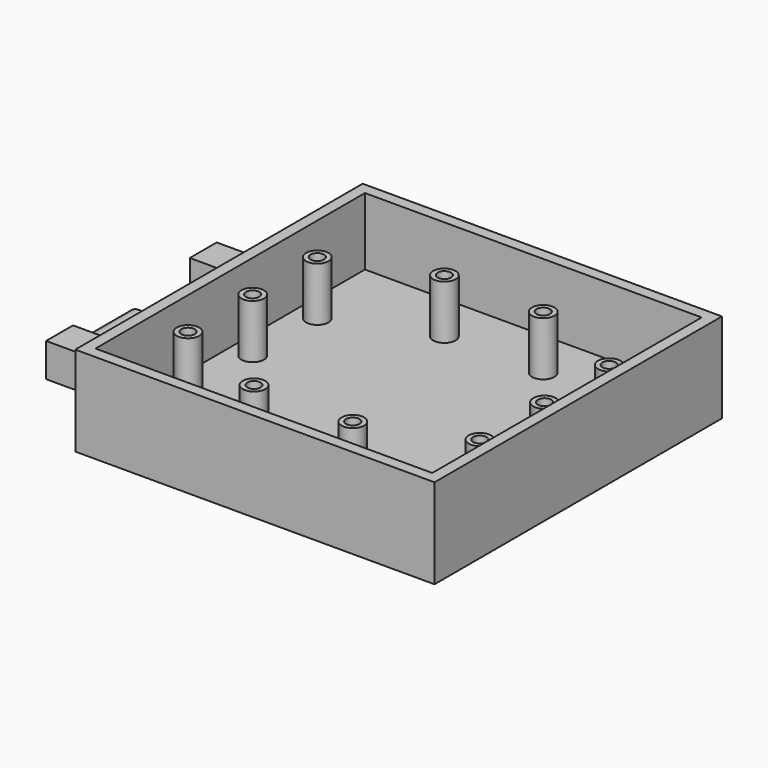
from build123d import *

# Parameters (mm, degrees)
F0_W      = 80
F0_H      = 80
F1_DEPTH  = 20
F2_W      = 75
F2_H      = 75
F3_DEPTH  = 15
F4_R      = 2.5
F4_R_2    = 1.5
F5_DEPTH  = 12
F6_W      = 7.5
F6_H      = 7.5
F7_DEPTH  = 7.5
F8_R      = 2.5
F9_DEPTH  = 15
F10_SIZE2 = 1.4004150764
F10_SIZE  = 2


with BuildPart() as f1:
    # F0 (on Top) → F1 (new body)
    with BuildSketch(Plane.XY):
        Rectangle(F0_W, F0_H)
    extrude(amount=F1_DEPTH)

    # F2 (on face) → F3 (cut)
    with BuildSketch(Plane.XY.offset(20)):
        Rectangle(F2_W, F2_H)
    extrude(amount=-F3_DEPTH, mode=Mode.SUBTRACT)

    # F4 (on face) → F5 (join)
    with BuildSketch(Plane.XY.offset(5)):
        with Locations((-11, 26.5)):
            Circle(F4_R)
        with Locations((-11, 26.5)):
            Circle(F4_R_2, mode=Mode.SUBTRACT)
        with Locations((11, 26.5)):
            Circle(F4_R)
        with Locations((11, 26.5)):
            Circle(F4_R_2, mode=Mode.SUBTRACT)
        with Locations((-11, -26.5)):
            Circle(F4_R)
        with Locations((-11, -26.5)):
            Circle(F4_R_2, mode=Mode.SUBTRACT)
        with Locations((11, -26.5)):
            Circle(F4_R)
        with Locations((11, -26.5)):
            Circle(F4_R_2, mode=Mode.SUBTRACT)
        with Locations((-32.5, 18)):
            Circle(F4_R)
        with Locations((-32.5, 18)):
            Circle(F4_R_2, mode=Mode.SUBTRACT)
        with Locations((-32.5, 0)):
            Circle(F4_R)
        with Locations((-32.5, 0)):
            Circle(F4_R_2, mode=Mode.SUBTRACT)
        with Locations((-32.5, -18)):
            Circle(F4_R)
        with Locations((-32.5, -18)):
            Circle(F4_R_2, mode=Mode.SUBTRACT)
        with Locations((32.5, 0)):
            Circle(F4_R)
        with Locations((32.5, 0)):
            Circle(F4_R_2, mode=Mode.SUBTRACT)
        with Locations((32.5, -18)):
            Circle(F4_R)
        with Locations((32.5, -18)):
            Circle(F4_R_2, mode=Mode.SUBTRACT)
        with Locations((32.5, 18)):
            Circle(F4_R)
        with Locations((32.5, 18)):
            Circle(F4_R_2, mode=Mode.SUBTRACT)
    extrude(amount=F5_DEPTH)

    # F6 (on face) → F7 (join)
    with BuildSketch(Plane(origin=(-40, 0, 0), x_dir=(0, -1, 0), z_dir=(-1, 0, 0))):
        with Locations((35, 15)):
            Rectangle(F6_W, F6_H)
        with Locations((-5, 15)):
            Rectangle(F6_W, F6_H)
    extrude(amount=F7_DEPTH)

    # F8 (on face) → F9 (join)
    with BuildSketch(Plane(origin=(0, -31.25, 0), x_dir=(-1, 0, 0), z_dir=(0, 1, 0))):
        with Locations((43.75, 15)):
            Circle(F8_R)
    extrude(amount=F9_DEPTH)

    # F10
    f10_edges = [f1.edges().sort_by_distance(p)[0] for p in [
        (-41.25, -16.25, 15),
    ]]
    f10_side = f1.faces().sort_by_distance((-43.75, -16.25, 15))[0]
    chamfer(f10_edges, length=F10_SIZE, length2=F10_SIZE2, reference=f10_side)


solid = f1.part
